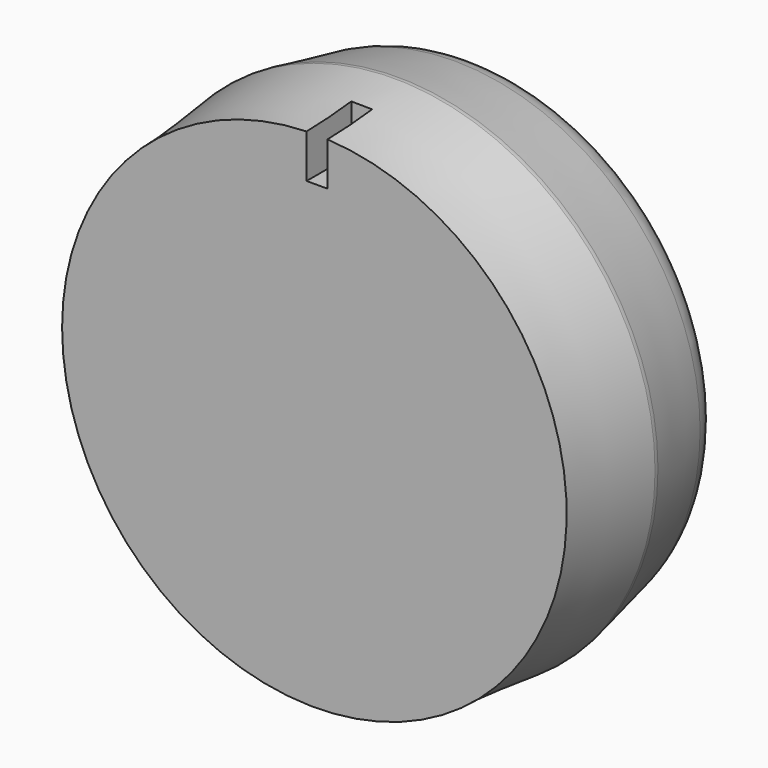
from build123d import *

# Parameters (mm, degrees)
F2_R     = 9.8153968116
F3_DEPTH = 9
F5_W     = 1
F5_H     = 3
F6_DEPTH = 10


with BuildPart() as f1:
    # F0 (on Top) → F1 (revolve)
    with BuildSketch(Plane.XY):
        with BuildLine():
            Line((6.25, 5), (-3.5653968116, 5))
            ThreePointArc((-3.5653968116, 5), (-4.8281685697, 4.5509376154), (-5.523877031, 3.4054074869))
            Line((-5.523877031, 3.4054074869), (-6.2292401097, -0.0021261228))
            ThreePointArc((-6.2292401097, -0.0021261228), (-6.2447964892, -0.1029478503), (-6.25, -0.2048298662))
            add(Edge.make_bspline(
                [(-6.25, -0.2048298662), (-6.0833294246, -1.9201700348), (-5.8458379979, -3.6322490553), (-5.8479388244, -5)],
                knots=[0, 0, 0, 0, 0.5738842157, 0.5738842157, 0.5738842157, 0.5738842157], degree=3))
            Line((-5.8479388244, -5), (6.25, -5))
            Line((6.25, -5), (6.25, 5))
        make_face()
    revolve(axis=Axis((6.25, 0, 0), (0, -1, 0)))

    # F2 (on face) → F3 (cut)
    with BuildSketch(Plane(origin=(0, 5, 0), x_dir=(-1, 0, 0), z_dir=(0, 1, 0))):
        with Locations((-6.25, 0)):
            Circle(F2_R)
    extrude(amount=-F3_DEPTH, mode=Mode.SUBTRACT)

    # F5 (on offset) → F6 (cut)
    with BuildSketch(Plane.XY.offset(20)):
        with Locations((6.3768936433, -3.820542492)):
            Rectangle(F5_W, F5_H)
    extrude(amount=-F6_DEPTH, mode=Mode.SUBTRACT)


solid = f1.part
